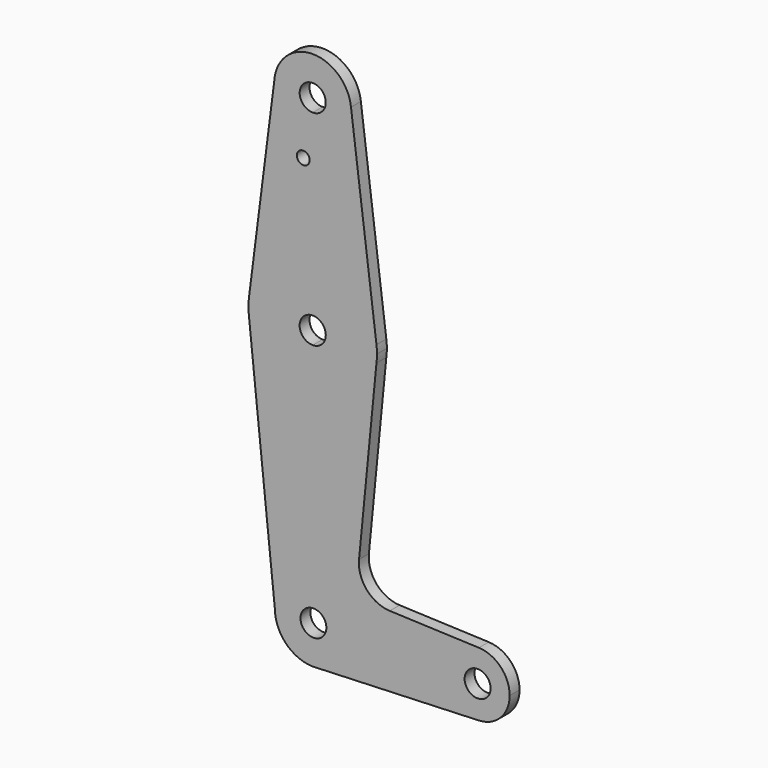
from build123d import *

# Parameters (mm, degrees)
F0_R     = 1.589098
F1_DEPTH = 3.048


with BuildPart() as f1:
    # F0 (on Front) → F1 (new body)
    with BuildSketch(Plane.XZ):
        with BuildLine():
            ThreePointArc((3.225188, 114.421897), (-2.280553, 116.702449), (0, 111.196708))
            ThreePointArc((0, 111.196708), (2.280553, 112.141344), (3.225188, 114.421897))
        make_face()
        with BuildLine():
            ThreePointArc((0, 104.89932), (6.733478, 107.688418), (9.522576, 114.421897))
            ThreePointArc((9.522576, 114.421897), (9.508403, 114.941252), (9.465926, 115.459061))
            ThreePointArc((9.465926, 115.459061), (-0.252548, 123.941123), (-9.507604, 114.955688))
            ThreePointArc((-9.507604, 114.955688), (-6.919629, 107.879864), (0, 104.89932))
        make_face()
        with BuildLine():
            ThreePointArc((3.225188, 114.421897), (2.280553, 112.141344), (0, 111.196708))
            ThreePointArc((0, 111.196708), (-2.280553, 116.702449), (3.225188, 114.421897))
        make_face(mode=Mode.SUBTRACT)
        with BuildLine():
            ThreePointArc((9.465926, 115.459061), (9.508403, 114.941252), (9.522576, 114.421897))
            ThreePointArc((9.522576, 114.421897), (6.733478, 107.688418), (0, 104.89932))
            Line((0, 104.89932), (0, 100.391127))
            Line((0, 100.391127), (0, 79.698276))
            ThreePointArc((0, 79.698276), (10.503789, 75.730596), (15.761188, 65.809315))
            Line((15.761188, 65.809315), (9.465926, 115.459061))
        make_face()
        with BuildLine():
            Line((0, 100.391127), (0, 104.89932))
            ThreePointArc((0, 104.89932), (-6.919629, 107.879864), (-9.507604, 114.955688))
            Line((-9.507604, 114.955688), (-15.760301, 65.816305))
            ThreePointArc((-15.760301, 65.816305), (-10.501145, 75.732925), (0, 79.698276))
            Line((0, 79.698276), (0, 100.391127))
        make_face()
        with Locations((-2.337395, 100.580491)):
            Circle(F0_R, mode=Mode.SUBTRACT)
        with BuildLine():
            ThreePointArc((15.887376, 63.8109), (15.855798, 64.812098), (15.761188, 65.809315))
            ThreePointArc((15.761188, 65.809315), (10.503789, 75.730596), (0, 79.698276))
            Line((0, 79.698276), (0, 67.041351))
            ThreePointArc((0, 67.041351), (2.284274, 66.095174), (3.230452, 63.8109))
            ThreePointArc((3.230452, 63.8109), (2.284274, 61.526626), (0, 60.580448))
            Line((0, 60.580448), (0, 47.923523))
            ThreePointArc((0, 47.923523), (10.503789, 51.891204), (15.761188, 61.812484))
            ThreePointArc((15.761188, 61.812484), (15.855798, 62.809702), (15.887376, 63.8109))
        make_face()
        with BuildLine():
            ThreePointArc((0, 79.698276), (-10.501145, 75.732925), (-15.760301, 65.816305))
            ThreePointArc((-15.760301, 65.816305), (-15.886325, 63.993712), (-15.802276, 62.168701))
            ThreePointArc((-15.802276, 62.168701), (-10.637634, 52.010498), (0, 47.923523))
            Line((0, 47.923523), (0, 60.580448))
            ThreePointArc((0, 60.580448), (-3.230452, 63.8109), (0, 67.041351))
            Line((0, 67.041351), (0, 79.698276))
        make_face()
        with BuildLine():
            ThreePointArc((0, 3.358649), (-2.013552, -2.148566), (3.371783, 0.17134))
            ThreePointArc((3.371783, 0.17134), (2.372409, 2.491246), (0, 3.358649))
        make_face()
        with BuildLine():
            ThreePointArc((0, 47.923523), (-10.637634, 52.010498), (-15.802276, 62.168701))
            Line((-15.802276, 62.168701), (-9.341601, 0))
            ThreePointArc((-9.341601, 0), (-6.556906, -6.559274), (0, -9.349541))
            Line((0, -9.349541), (1.10065, -9.306567))
            Line((1.10065, -9.306567), (41.077556, -7.745699))
            ThreePointArc((41.077556, -7.745699), (35.276359, -5.53936), (32.845369, 0.17134))
            ThreePointArc((32.845369, 0.17134), (35.276965, 5.882624), (41.079236, 8.088314))
            Line((41.079236, 8.088314), (19.055129, 8.952911))
            ThreePointArc((19.055129, 8.952911), (13.375075, 11.671798), (11.454359, 17.668982))
            Line((11.454359, 17.668982), (15.761188, 61.812484))
            ThreePointArc((15.761188, 61.812484), (10.503789, 51.891204), (0, 47.923523))
        make_face()
        with BuildLine():
            ThreePointArc((0, 3.358649), (2.372409, 2.491246), (3.371783, 0.17134))
            ThreePointArc((3.371783, 0.17134), (-2.013552, -2.148566), (0, 3.358649))
        make_face(mode=Mode.SUBTRACT)
        with BuildLine():
            Line((0.92593, 9.664606), (0.179428, 9.693912))
            ThreePointArc((0.179428, 9.693912), (0.552967, 9.686583), (0.92593, 9.664606))
        make_face(mode=Mode.SUBTRACT)
        with BuildLine():
            Line((1.10065, -9.306567), (0, -9.349541))
            ThreePointArc((0, -9.349541), (0.550947, -9.343981), (1.10065, -9.306567))
        make_face()
        with BuildLine():
            ThreePointArc((43.97704, 0.17134), (40.768441, 3.37994), (37.559841, 0.17134))
            ThreePointArc((37.559841, 0.17134), (40.768441, -3.037259), (43.97704, 0.17134))
        make_face()
        with BuildLine():
            ThreePointArc((48.691512, 0.17134), (46.479724, 5.662816), (41.079236, 8.088314))
            ThreePointArc((41.079236, 8.088314), (35.276965, 5.882624), (32.845369, 0.17134))
            ThreePointArc((32.845369, 0.17134), (35.276359, -5.53936), (41.077556, -7.745699))
            ThreePointArc((41.077556, -7.745699), (46.479141, -5.320742), (48.691512, 0.17134))
        make_face()
        with BuildLine():
            ThreePointArc((43.97704, 0.17134), (40.768441, -3.037259), (37.559841, 0.17134))
            ThreePointArc((37.559841, 0.17134), (40.768441, 3.37994), (43.97704, 0.17134))
        make_face(mode=Mode.SUBTRACT)
    extrude(amount=F1_DEPTH)


solid = f1.part
